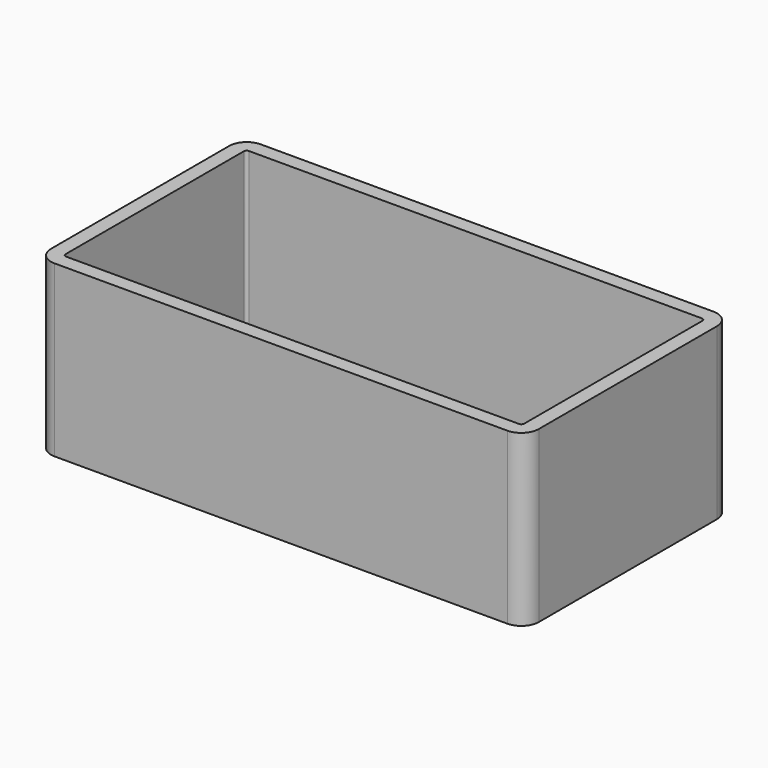
from build123d import *

# Parameters (mm, degrees)
F0_W     = 85.09
F0_H     = 44.958
F1_DEPTH = 29.6429
F2_R     = 3.048
F3_T     = -2.54


with BuildPart() as f1:
    # F0 (on Top) → F1 (new body)
    with BuildSketch(Plane.XY):
        with Locations((-42.545, 22.479)):
            Rectangle(F0_W, F0_H)
    extrude(amount=F1_DEPTH)

    # F2
    f2_edges = [f1.edges().sort_by_distance(p)[0] for p in [
        (-85.09, 44.958, 14.82145),
        (-85.09, 0, 14.82145),
        (0, 0, 14.82145),
        (0, 44.958, 14.82145),
    ]]
    fillet(f2_edges, radius=F2_R)

    # F3
    f3_openings = [f1.faces().sort_by_distance(p)[0] for p in [
        (-42.545, 22.479, 29.6429),
    ]]
    offset(amount=F3_T, openings=f3_openings)


solid = f1.part
